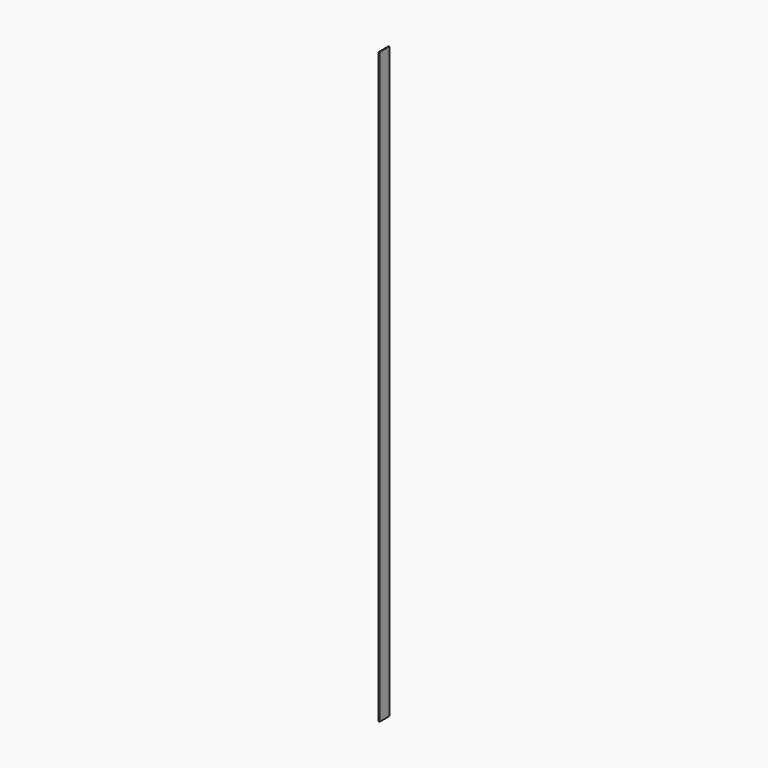
from build123d import *

# Parameters (mm, degrees)
F1_DEPTH = 5


with BuildPart() as f1:
    # F0 (on Front) → F1 (new body)
    with BuildSketch(Plane.XZ):
        with BuildLine():
            Line((-36.4274961966, 39.1578037006), (-36.3294929266, 39.1578037006))
            Line((-36.3294929266, 39.1578037006), (-36.2314896565, 39.1578037006))
            ThreePointArc((-36.2314896565, 39.1578037006), (-36.3294929266, 39.2558069707), (-36.4274961966, 39.1578037006))
        make_face()
        with BuildLine():
            Line((-36.2314896565, 39.1578037006), (-36.3294929266, 39.1578037006))
            Line((-36.3294929266, 39.1578037006), (-36.4274961966, 39.1578037006))
            ThreePointArc((-36.4274961966, 39.1578037006), (-36.3294929266, 39.0598004306), (-36.2314896565, 39.1578037006))
        make_face()
        with BuildLine():
            Line((-36.1794929266, 39.1578037006), (-36.2314896565, 39.1578037006))
            ThreePointArc((-36.2314896565, 39.1578037006), (-36.3294929266, 39.0598004306), (-36.4274961966, 39.1578037006))
            Line((-36.4274961966, 39.1578037006), (-36.4794929266, 39.1578037006))
            Line((-36.4794929266, 39.1578037006), (-36.4794929266, -198.0890776676))
            Line((-36.4794929266, -198.0890776676), (-36.1794929266, -198.0890776676))
            Line((-36.1794929266, -198.0890776676), (-36.1794929266, 39.1578037006))
        make_face()
    extrude(amount=F1_DEPTH)


solid = f1.part
